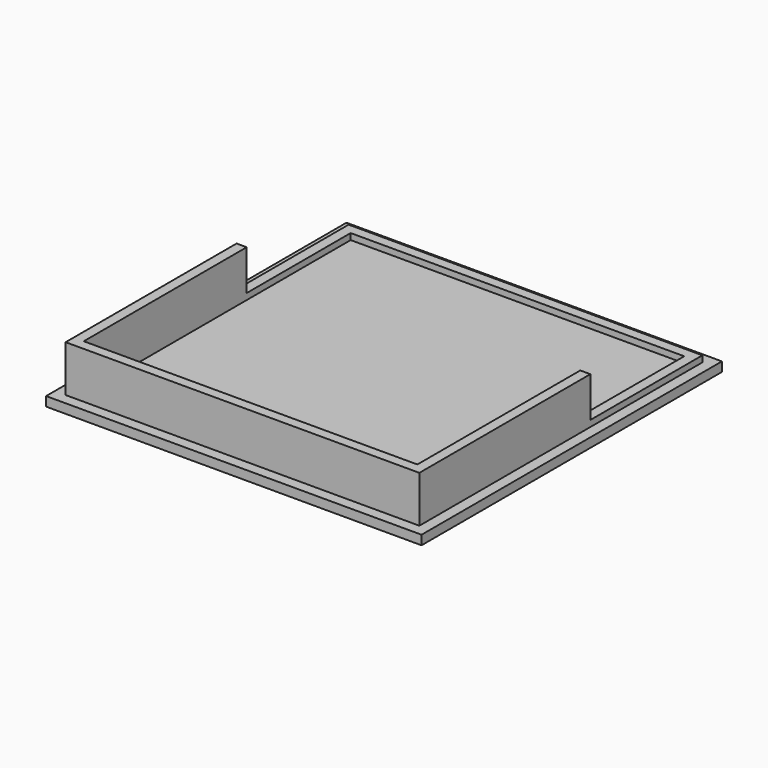
from build123d import *

# Parameters (mm, degrees)
F0_W     = 48.4
F0_H     = 48.4
F3_DEPTH = 1.2
F4_DEPTH = 7.2
F5_DEPTH = 2


with BuildPart() as f3:
    # F0 (on Top) → F3 (new body)
    with BuildSketch(Plane.XY):
        with Locations((0, -0.678107)):
            Rectangle(F0_W, F0_H)
        Polygon((-22.8, 4.06864), (-22.8, 22.121893), (22.8, 22.121893), (22.8, 4.06864), (22.8, -23.478107), (-22.8, -23.478107), align=None, mode=Mode.SUBTRACT)
        Polygon((-21.5, 20.821893), (-21.5, 4.06864), (-21.5, -22.178107), (21.5, -22.178107), (21.5, 4.06864), (21.5, 20.821893), align=None)
        Polygon((22.8, 22.121893), (-22.8, 22.121893), (-22.8, 4.06864), (-21.5, 4.06864), (-21.5, 20.821893), (21.5, 20.821893), (21.5, 4.06864), (22.8, 4.06864), align=None)
        Polygon((-21.5, 4.06864), (-22.8, 4.06864), (-22.8, -23.478107), (22.8, -23.478107), (22.8, 4.06864), (21.5, 4.06864), (21.5, -22.178107), (-21.5, -22.178107), align=None)
    extrude(amount=F3_DEPTH)

    # F1 (on Top) → F4 (join)
    with BuildSketch(Plane.XY):
        Polygon((-21.5, 4.06864), (-22.8, 4.06864), (-22.8, -23.478107), (22.8, -23.478107), (22.8, 4.06864), (21.5, 4.06864), (21.5, -22.178107), (-21.5, -22.178107), align=None)
    extrude(amount=F4_DEPTH)

    # F2 (on Top) → F5 (join)
    with BuildSketch(Plane.XY):
        Polygon((22.8, 22.121893), (-22.8, 22.121893), (-22.8, 4.06864), (-21.5, 4.06864), (-21.5, 20.821893), (21.5, 20.821893), (21.5, 4.06864), (22.8, 4.06864), align=None)
    extrude(amount=F5_DEPTH)


solid = f3.part
